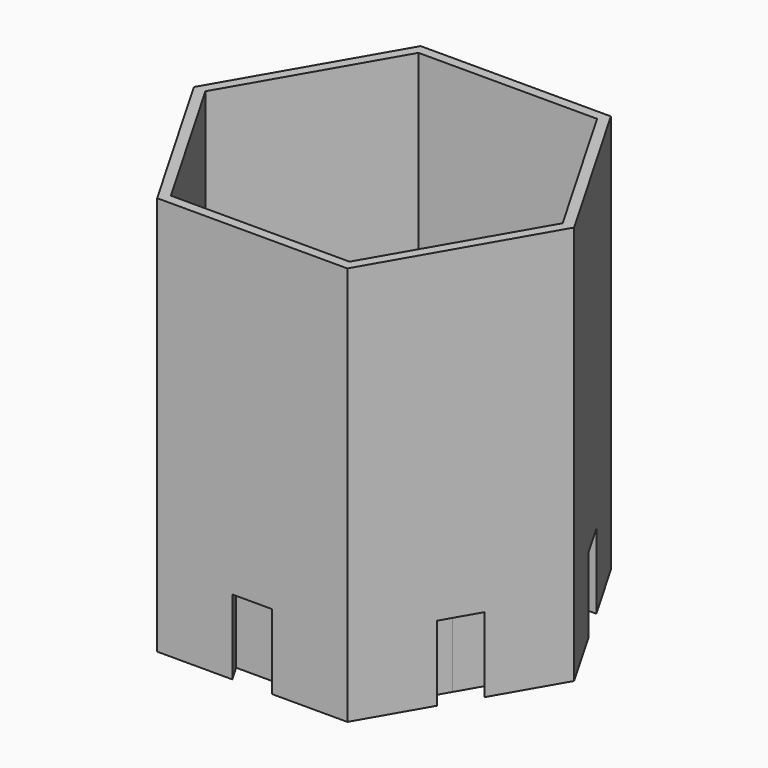
from build123d import *

# Parameters (mm, degrees)
F1_DEPTH = 101.6
F3_DEPTH = 76.2
F5_DEPTH = 19.05


with BuildPart() as f1:
    # F0 (on Top) → F1 (new body)
    with BuildSketch(Plane.XY):
        Polygon((-24.19675, -41.91), (24.19675, -41.91), (48.3935, 0), (24.19675, 41.91), (-24.19675, 41.91), (-48.3935, 0), align=None)
    extrude(amount=F1_DEPTH)

    # F2 (on face) → F3 (cut)
    with BuildSketch(Plane.XY.offset(101.6)):
        Polygon((-22.73028, -39.37), (22.73028, -39.37), (45.46056, 0), (22.73028, 39.37), (-22.73028, 39.37), (-45.46056, 0), align=None)
    extrude(amount=-F3_DEPTH, mode=Mode.SUBTRACT)

    # F4 (on face) → F5 (cut)
    with BuildSketch(Plane(origin=(0, 0, 0), x_dir=(1, 0, 0), z_dir=(0, 0, -1))):
        Polygon((-7.62, 37.510591), (0, 37.510591), (0, 41.91), (-5.08, 41.91), align=None)
        Polygon((7.62, 37.510591), (5.08, 41.91), (0, 41.91), (0, 37.510591), align=None)
        Polygon((32.485125, 18.755295), (36.295125, 20.955), (33.755125, 25.354409), (28.675125, 25.354409), align=None)
        Polygon((36.295125, 12.156182), (38.835125, 16.555591), (36.295125, 20.955), (32.485125, 18.755295), align=None)
        Polygon((36.295125, -20.955), (38.835125, -16.555591), (36.295125, -12.156182), (32.485125, -18.755295), align=None)
        Polygon((33.755125, -25.354409), (36.295125, -20.955), (32.485125, -18.755295), (28.675125, -25.354409), align=None)
        Polygon((7.62, -37.510591), (0, -37.510591), (0, -41.91), (5.08, -41.91), align=None)
        Polygon((0, -41.91), (0, -37.510591), (-7.62, -37.510591), (-5.08, -41.91), align=None)
        Polygon((-28.675125, -25.354409), (-32.485125, -18.755295), (-36.295125, -20.955), (-33.755125, -25.354409), align=None)
        Polygon((-36.295125, -20.955), (-32.485125, -18.755295), (-36.295125, -12.156182), (-38.835125, -16.555591), align=None)
        Polygon((-36.295125, 20.955), (-32.485125, 18.755295), (-28.675125, 25.354409), (-33.755125, 25.354409), align=None)
        Polygon((-36.295125, 12.156182), (-32.485125, 18.755295), (-36.295125, 20.955), (-38.835125, 16.555591), align=None)
    extrude(amount=-F5_DEPTH, mode=Mode.SUBTRACT)


solid = f1.part
